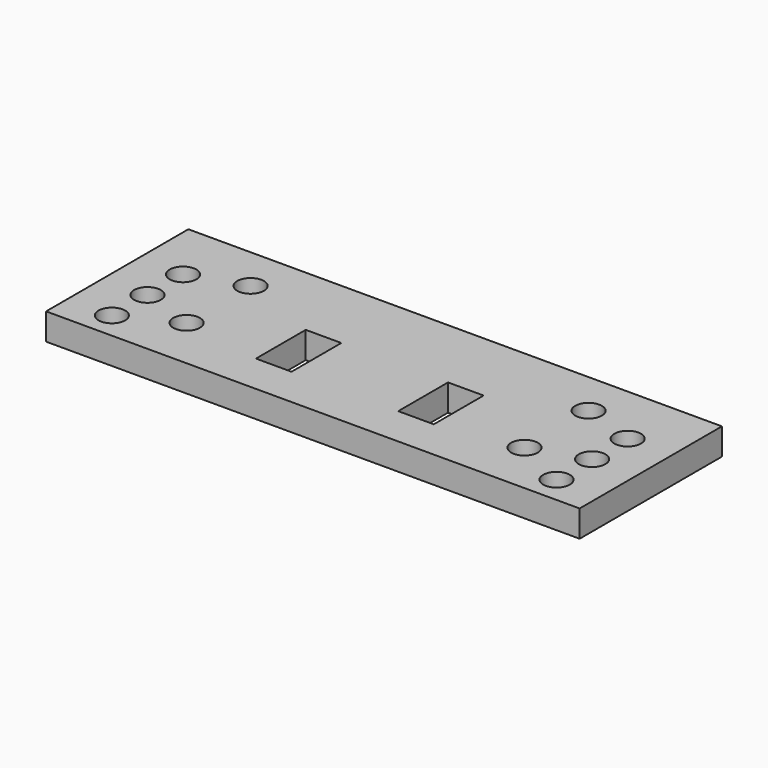
from build123d import *

# Parameters (mm, degrees)
SKETCH_W   = 30
SKETCH_H   = 20
SKETCH_R   = 1.5
SKETCH_W_2 = 4
SKETCH_H_2 = 7
PAD_DEPTH  = 3


with BuildPart() as part:
    # Sketch → Pad (new body)
    with BuildSketch(Plane.XY):
        with Locations((15, 10)):
            Rectangle(SKETCH_W, SKETCH_H)
        with Locations((5, 8)):
            Circle(SKETCH_R, mode=Mode.SUBTRACT)
        with Locations((11, 15)):
            Circle(SKETCH_R, mode=Mode.SUBTRACT)
        with Locations((11, 6)):
            Circle(SKETCH_R, mode=Mode.SUBTRACT)
        with Locations((5, 13)):
            Circle(SKETCH_R, mode=Mode.SUBTRACT)
        with Locations((5, 3)):
            Circle(SKETCH_R, mode=Mode.SUBTRACT)
        with Locations((22, 8)):
            Rectangle(SKETCH_W_2, SKETCH_H_2, mode=Mode.SUBTRACT)
    pad = extrude(amount=PAD_DEPTH)

    # Mirrored: Pad across face of Pad
    add(pad.mirror(Plane(origin=(30, 10, 1.5), x_dir=(0, 1, 0), z_dir=(1, 0, 0))))


solid = part.part
